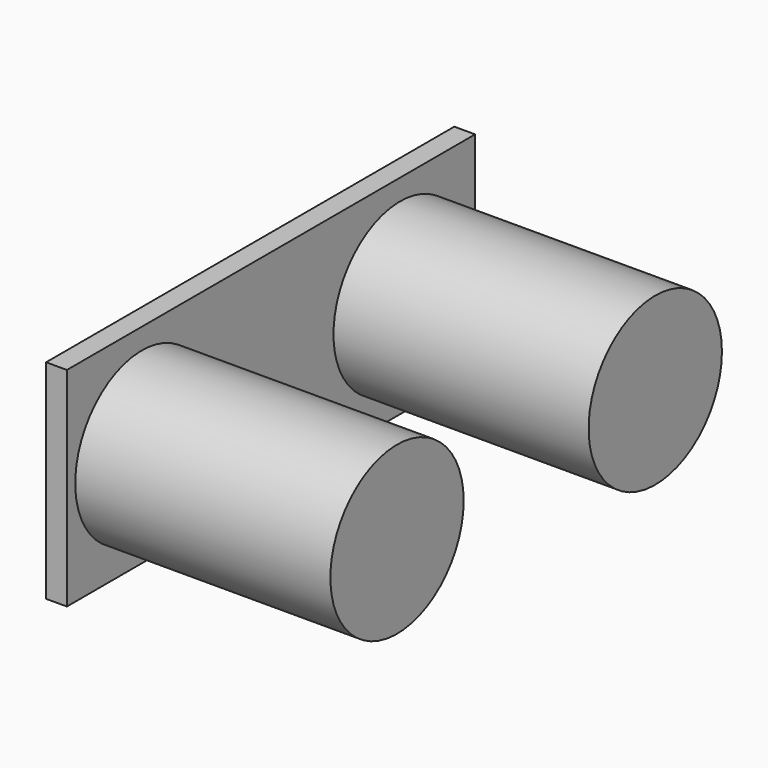
from build123d import *

# Parameters (mm, degrees)
F0_R     = 8
F1_DEPTH = 24.5
F2_W     = 49
F2_H     = 20
F3_DEPTH = 2


with BuildPart() as f1:
    # F0 (on Right) → F1 (new body)
    with BuildSketch(Plane.YZ):
        with Locations((-15.5, 0)):
            Circle(F0_R)
        with Locations((15.5, 0)):
            Circle(F0_R)
    extrude(amount=F1_DEPTH)


with BuildPart() as f3:
    # F2 (on Right) → F3 (new body)
    with BuildSketch(Plane.YZ):
        Rectangle(F2_W, F2_H)
    extrude(amount=-F3_DEPTH)


solid = Compound([f1.part, f3.part])
